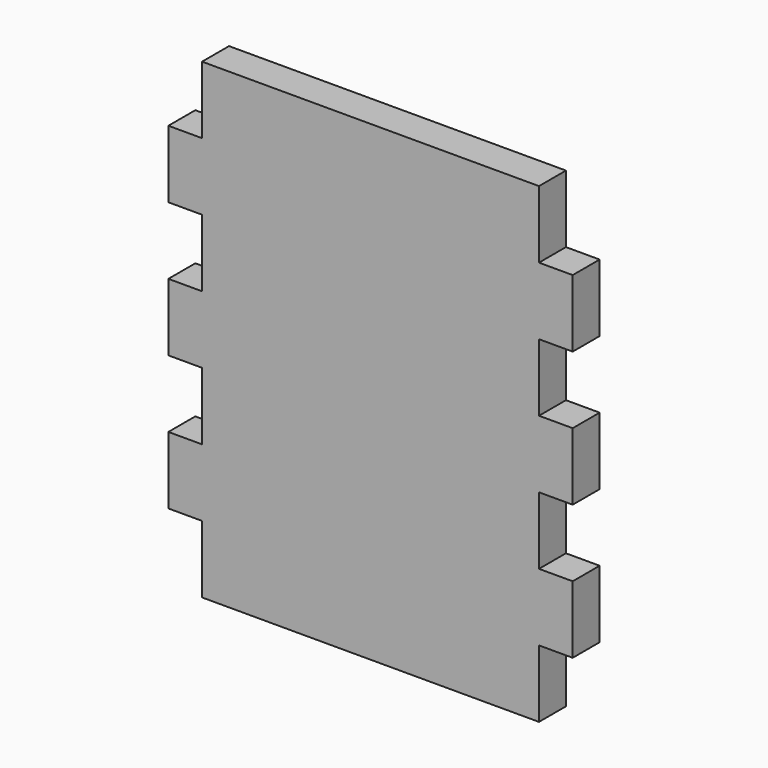
from build123d import *

# Parameters (mm, degrees)
F1_DEPTH = 5


with BuildPart() as f1:
    # F0 (on Front) → F1 (new body)
    with BuildSketch(Plane.XZ):
        Polygon((0, 0), (0, 70), (-25, 70), (-25, 60), (-30, 60), (-30, 50), (-25, 50), (-25, 40), (-30, 40), (-30, 30), (-25, 30), (-25, 20), (-30, 20), (-30, 10), (-25, 10), (-25, 0), align=None)
        Polygon((25, 70), (0, 70), (0, 0), (25, 0), (25, 10), (30, 10), (30, 20), (25, 20), (25, 30), (30, 30), (30, 40), (25, 40), (25, 50), (30, 50), (30, 60), (25, 60), align=None)
    extrude(amount=F1_DEPTH)


solid = f1.part
